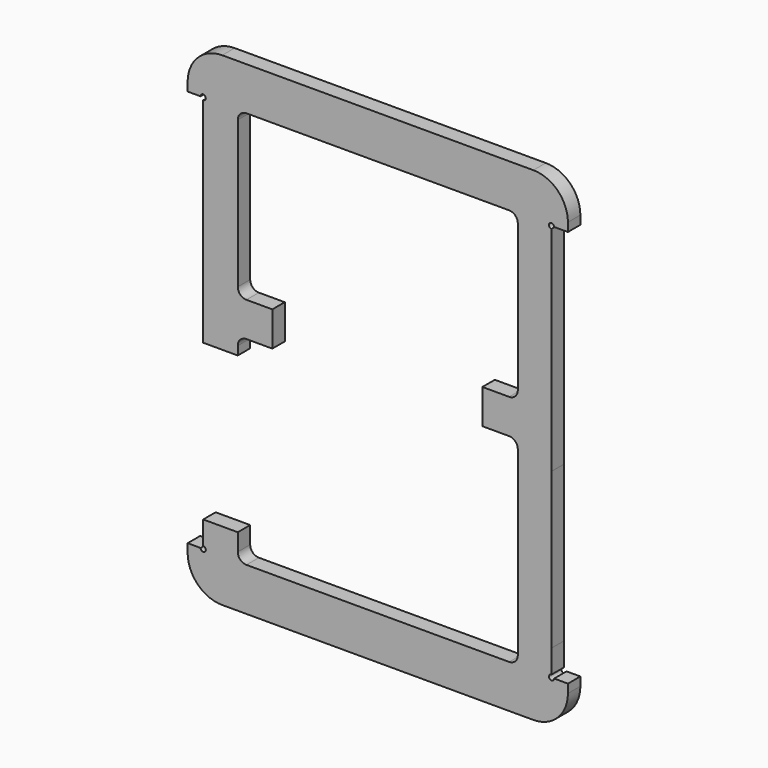
from build123d import *

# Parameters (mm, degrees)
F0_W     = 19.506821
F0_H     = 90
F1_DEPTH = 9


with BuildPart() as f1:
    # F0 (on Front) → F1 (new body)
    with BuildSketch(Plane.XZ):
        with BuildLine():
            Line((100.506821, -115.94898), (100.506821, -102.44898))
            Line((100.506821, -102.44898), (81, -102.44898))
            Line((81, -102.44898), (81, -112.44898))
            ThreePointArc((81, -112.44898), (79.535534, -115.984513), (76, -117.44898))
            Line((76, -117.44898), (-76, -117.44898))
            ThreePointArc((-76, -117.44898), (-79.535534, -115.984513), (-81, -112.44898))
            Line((-81, -112.44898), (-81, -102.44898))
            Line((-81, -102.44898), (-101, -102.44898))
            Line((-101, -102.44898), (-101, -115.94898))
            ThreePointArc((-101, -115.94898), (-99.93934, -116.388319), (-99.5, -117.44898))
            ThreePointArc((-99.5, -117.44898), (-101, -118.94898), (-102.5, -117.44898))
            Line((-102.5, -117.44898), (-110, -117.44898))
            Line((-110, -117.44898), (-110, -122.44898))
            ThreePointArc((-110, -122.44898), (-104.142136, -136.591115), (-90, -142.44898))
            Line((-90, -142.44898), (90, -142.44898))
            ThreePointArc((90, -142.44898), (104.142136, -136.591115), (110, -122.44898))
            Line((110, -122.44898), (110, -117.44898))
            Line((110, -117.44898), (102.006821, -117.44898))
            ThreePointArc((102.006821, -117.44898), (99.446161, -118.50964), (100.506821, -115.94898))
        make_face()
        with Locations((90.753411, -57.44898)):
            Rectangle(F0_W, F0_H)
        with BuildLine():
            Line((90, 137.55102), (-90, 137.55102))
            ThreePointArc((-90, 137.55102), (-104.142136, 131.693156), (-110, 117.55102))
            Line((-110, 117.55102), (-110, 112.55102))
            Line((-110, 112.55102), (-102.5, 112.55102))
            ThreePointArc((-102.5, 112.55102), (-101, 114.05102), (-99.5, 112.55102))
            ThreePointArc((-99.5, 112.55102), (-99.93934, 111.49036), (-101, 111.05102))
            Line((-101, 111.05102), (-101, -12.44898))
            Line((-101, -12.44898), (-81, -12.44898))
            Line((-81, -12.44898), (-81, -7.44898))
            ThreePointArc((-81, -7.44898), (-79.535534, -3.913446), (-76, -2.44898))
            Line((-76, -2.44898), (-61, -2.44898))
            Line((-61, -2.44898), (-61, 17.55102))
            Line((-61, 17.55102), (-76, 17.55102))
            ThreePointArc((-76, 17.55102), (-79.535534, 19.015487), (-81, 22.55102))
            Line((-81, 22.55102), (-81, 107.55102))
            ThreePointArc((-81, 107.55102), (-79.535534, 111.086554), (-76, 112.55102))
            Line((-76, 112.55102), (76, 112.55102))
            ThreePointArc((76, 112.55102), (79.535534, 111.086554), (81, 107.55102))
            Line((81, 107.55102), (81, 22.55102))
            ThreePointArc((81, 22.55102), (79.535534, 19.015487), (76, 17.55102))
            Line((76, 17.55102), (60.506821, 17.55102))
            Line((60.506821, 17.55102), (60.506821, -2.44898))
            Line((60.506821, -2.44898), (76, -2.44898))
            ThreePointArc((76, -2.44898), (79.535534, -3.913446), (81, -7.44898))
            Line((81, -7.44898), (81, -12.44898))
            Line((81, -12.44898), (100.506821, -12.44898))
            Line((100.506821, -12.44898), (100.506821, 111.05102))
            ThreePointArc((100.506821, 111.05102), (99.446161, 113.611681), (102.006821, 112.55102))
            Line((102.006821, 112.55102), (110, 112.55102))
            Line((110, 112.55102), (110, 117.55102))
            ThreePointArc((110, 117.55102), (104.142136, 131.693156), (90, 137.55102))
        make_face()
    extrude(amount=-F1_DEPTH)


solid = f1.part
